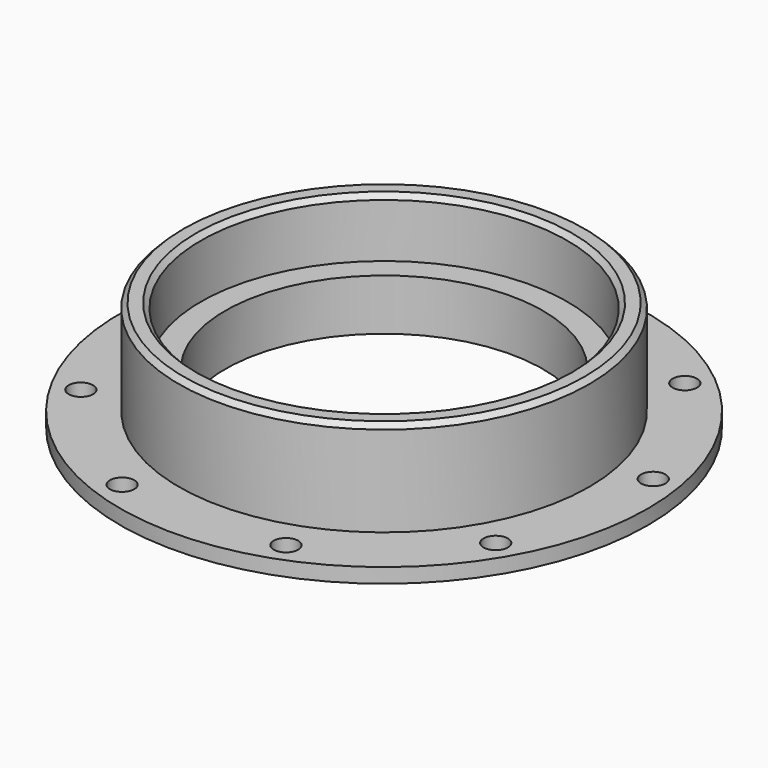
from build123d import *

# Parameters (mm, degrees)
SKETCH_R        = 54
SKETCH_R_2      = 32.5
SKETCH_R_3      = 2.5
PAD_DEPTH       = 3
SKETCH002_R     = 42
SKETCH002_R_2   = 37.5
PAD002_DEPTH    = 19.5
SKETCH003_R     = 37.5
SKETCH003_R_2   = 32.5
PAD003_DEPTH    = 7.5
CHAMFER_SIZE    = 1
CHAMFER001_SIZE = 1


with BuildPart() as part:
    # Sketch → Pad (new body)
    with BuildSketch(Plane.XY):
        Circle(SKETCH_R)
        Circle(SKETCH_R_2, mode=Mode.SUBTRACT)
        with Locations((0, 49)):
            Circle(SKETCH_R_3, mode=Mode.SUBTRACT)
        with Locations((48.25558, 8.508761)):
            Circle(SKETCH_R_3, mode=Mode.SUBTRACT)
        with Locations((42.435245, -24.5)):
            Circle(SKETCH_R_3, mode=Mode.SUBTRACT)
        with Locations((16.758987, -46.044938)):
            Circle(SKETCH_R_3, mode=Mode.SUBTRACT)
        with Locations((-16.758987, -46.044938)):
            Circle(SKETCH_R_3, mode=Mode.SUBTRACT)
        with Locations((-42.435245, -24.5)):
            Circle(SKETCH_R_3, mode=Mode.SUBTRACT)
        with Locations((-48.25558, 8.508761)):
            Circle(SKETCH_R_3, mode=Mode.SUBTRACT)
        with Locations((-31.496593, 37.536178)):
            Circle(SKETCH_R_3, mode=Mode.SUBTRACT)
        with Locations((31.496593, 37.536178)):
            Circle(SKETCH_R_3, mode=Mode.SUBTRACT)
    extrude(amount=PAD_DEPTH)

    # Sketch002 → Pad002 (join)
    with BuildSketch(Plane.XY.offset(3)):
        Circle(SKETCH002_R)
        Circle(SKETCH002_R_2, mode=Mode.SUBTRACT)
    extrude(amount=PAD002_DEPTH)

    # Sketch003 (on Face15 of Pad002) → Pad003 (join)
    with BuildSketch(Plane.XY.offset(3)):
        Circle(SKETCH003_R)
        Circle(SKETCH003_R_2, mode=Mode.SUBTRACT)
    extrude(amount=PAD003_DEPTH)

    # Chamfer
    chamfer_edges = [part.edges().sort_by_distance(p)[0] for p in [
        (-37.5, 0, 22.5),
    ]]
    chamfer(chamfer_edges, length=CHAMFER_SIZE)

    # Chamfer001
    chamfer001_edges = [part.edges().sort_by_distance(p)[0] for p in [
        (-42, 0, 22.5),
    ]]
    chamfer(chamfer001_edges, length=CHAMFER001_SIZE)


solid = part.part
